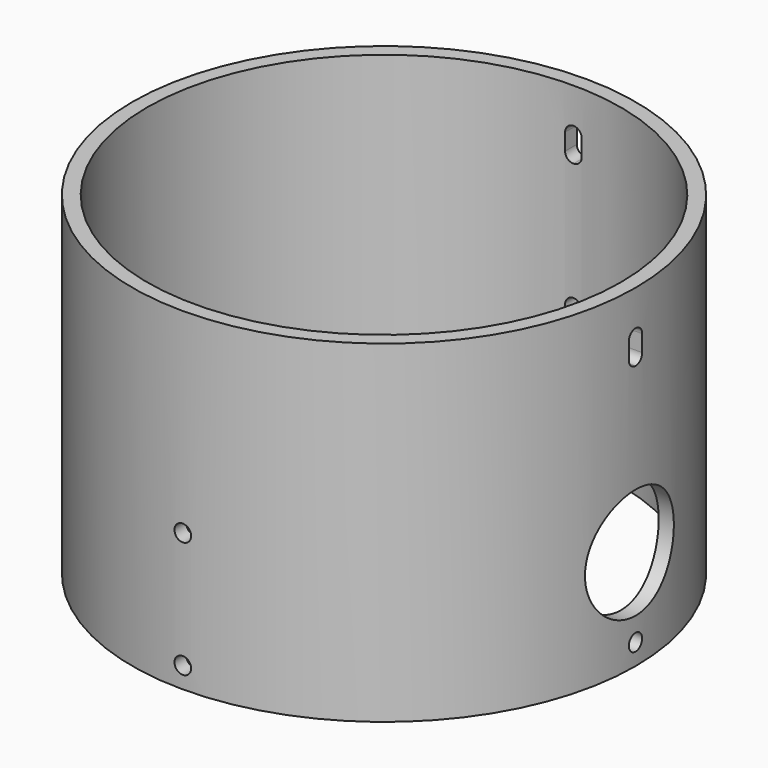
from build123d import *

# Parameters (mm, degrees)
SKETCH_R             = 45.32
SKETCH_R_2           = 42.665
PAD_DEPTH            = 60
SKETCH002_R          = 1.5
SKETCH002_R_2        = 10
POCKET_DEPTH         = 8
SKETCH003_R          = 1.5
POCKET001_DEPTH      = 8
SKETCH004_R          = 1.5
POCKET002_DEPTH      = 5
BODY_PLACEMENT_ANGLE = 180


with BuildPart() as part:
    # Sketch → Pad (new body)
    with BuildSketch(Plane.XY):
        Circle(SKETCH_R)
        Circle(SKETCH_R_2, mode=Mode.SUBTRACT)
    extrude(amount=PAD_DEPTH)

    # Sketch002 (on DatumPlane) → Pocket (cut)
    with BuildSketch(Plane(origin=(45.32, 0, 60), x_dir=(0, 1, 0), z_dir=(-1, 0, 0))):
        with Locations((0, 3.8)):
            Circle(SKETCH002_R)
        with Locations((0, 18)):
            Circle(SKETCH002_R_2)
        with BuildLine():
            Line((0, 47.6), (0.0005, 47.6))
            ThreePointArc((0.0005, 47.6), (1.060807, 48.039193), (1.5, 49.0995))
            Line((1.5, 49.0995), (1.5, 52.1005))
            ThreePointArc((1.5, 52.1005), (1.060807, 53.160807), (0.0005, 53.6))
            Line((0.0005, 53.6), (0, 53.6))
            ThreePointArc((0, 53.6), (-1.06066, 53.16066), (-1.5, 52.1))
            Line((-1.5, 52.1), (-1.5, 49.1))
            ThreePointArc((-1.5, 49.1), (-1.06066, 48.03934), (0, 47.6))
        make_face()
    extrude(amount=POCKET_DEPTH, mode=Mode.SUBTRACT)

    # Sketch003 (on DatumPlane) → Pocket001 (cut)
    with BuildSketch(Plane(origin=(0, 45.32, 60), x_dir=(0, 0, -1), z_dir=(0, 1, 0))):
        with Locations((3.8, 0)):
            Circle(SKETCH003_R)
        with Locations((24.8, 0)):
            Circle(SKETCH003_R)
    extrude(amount=-POCKET001_DEPTH, mode=Mode.SUBTRACT)

    # Sketch004 (on DatumPlane) → Pocket002 (cut)
    with BuildSketch(Plane(origin=(0, -45.32, 60), x_dir=(0, 0, 1), z_dir=(0, -1, 0))):
        with Locations((-3.8, 0)):
            Circle(SKETCH004_R)
        with Locations((-24.8, 0)):
            Circle(SKETCH004_R)
        with BuildLine():
            Line((-52.1, -1.5), (-49.095, -1.5))
            ThreePointArc((-49.095, -1.5), (-48.037875, -1.062125), (-47.6, -0.005))
            Line((-47.6, -0.005), (-47.6, 0))
            ThreePointArc((-47.6, 0), (-48.03934, 1.06066), (-49.1, 1.5))
            Line((-49.1, 1.5), (-52.105, 1.5))
            ThreePointArc((-52.105, 1.5), (-53.162125, 1.062125), (-53.6, 0.005))
            Line((-53.6, 0.005), (-53.6, 0))
            ThreePointArc((-53.6, 0), (-53.16066, -1.06066), (-52.1, -1.5))
        make_face()
    extrude(amount=-POCKET002_DEPTH, mode=Mode.SUBTRACT)


with BuildPart() as part_1:
    # Body placement: moved
    add(part.part.rotate(Axis((0, 0, 0), (1, 0, 0)), BODY_PLACEMENT_ANGLE))


solid = part_1.part
